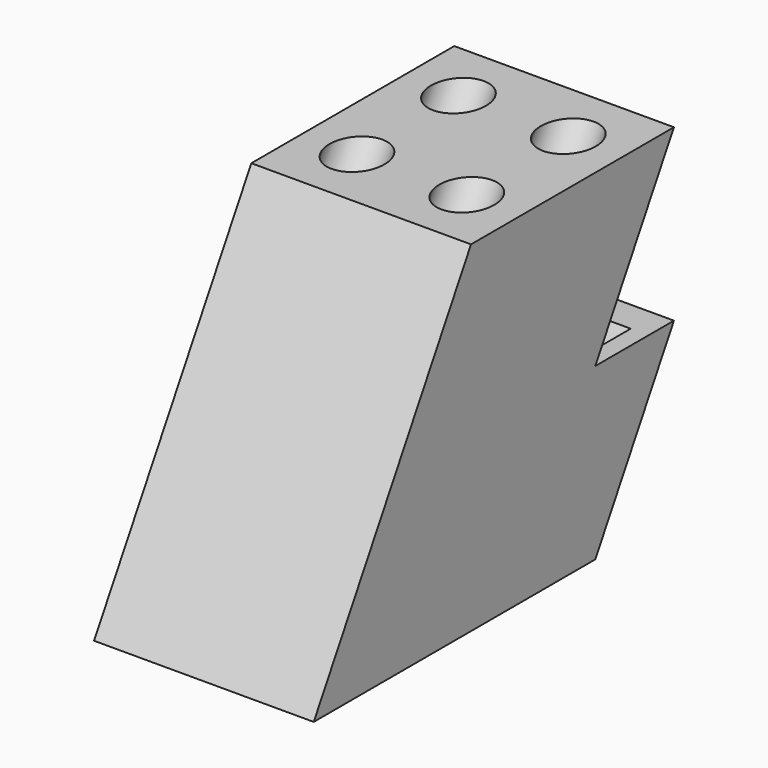
from build123d import *

# Parameters (mm, degrees)
F1_DEPTH = 20
F3_R     = 5
F3_W     = 13.5
F3_H     = 5.5
F4_DEPTH = 500
F6_W     = 33.5
F6_H     = 49.08588
F7_DEPTH = 10


with BuildPart() as f1:
    # F0 (on Right) → F1 (new body)
    with BuildSketch(Plane.YZ):
        Polygon((35.795717, 62), (0, 0), (46.188022, 0), (64.08588, 0), (81.983738, 31), (64.08588, 31), (81.983738, 62), align=None)
    extrude(amount=F1_DEPTH)

    # F3 (on face) → F4 (cut, symmetric)
    with BuildSketch(Plane(origin=(0, 16.02147, 27.75), x_dir=(1, 0, 0), z_dir=(0, -0.5, -0.866025))):
        with Locations((10, -10)):
            Circle(F3_R)
        with Locations((10, -30)):
            Circle(F3_R)
        with Locations((10, -47.75)):
            Rectangle(F3_W, F3_H)
    extrude(amount=F4_DEPTH, both=True, mode=Mode.SUBTRACT)

    # F5: F1 across plane


with BuildPart() as f1_1:
    add(f1.part)
    add(f1.part.mirror(Plane.YZ))

    # F6 (on face) → F7 (cut)
    with BuildSketch(Plane(origin=(0, 0, 0), x_dir=(1, 0, 0), z_dir=(0, 0, -1))):
        with Locations((0, -34.54294)):
            Rectangle(F6_W, F6_H)
    extrude(amount=-F7_DEPTH, mode=Mode.SUBTRACT)


solid = f1_1.part
